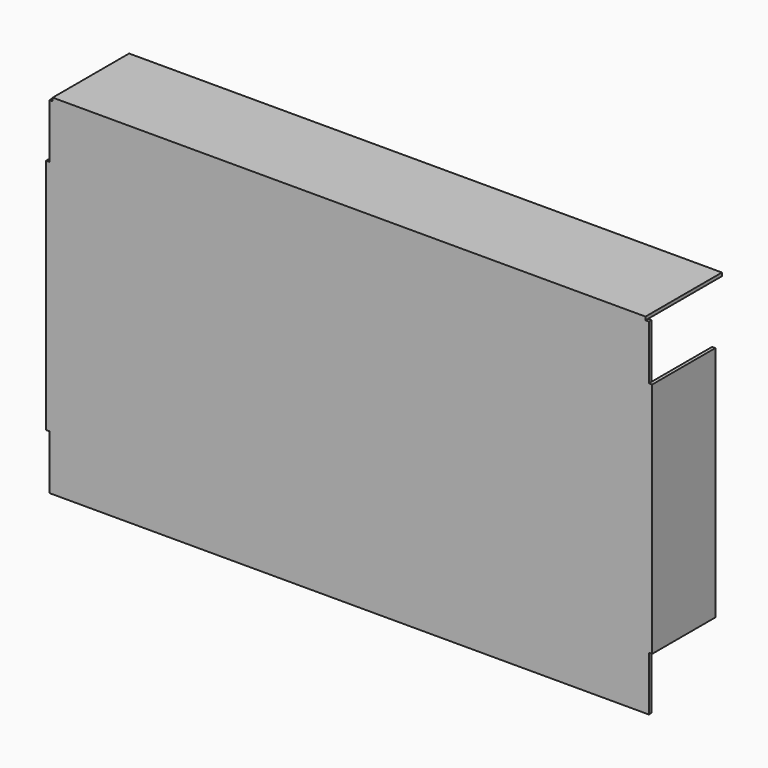
from build123d import *

# Parameters (mm, degrees)
F0_W      = 498.475
F0_H      = 254
F1_DEPTH  = 36.576
F2_W      = 577.8754
F2_H      = 333.502
F3_DEPTH  = 3.175
F4_W      = 76.2
F4_H      = 114.3
F5_DEPTH  = 3.175
F6_W      = 76.2
F6_H      = 228.6
F7_DEPTH  = 3.175
F8_W      = 25.4
F8_H      = 152.4
F9_DEPTH  = 6.35
F10_W     = 25.4
F10_H     = 152.4
F11_DEPTH = 6.35
F12_W     = 571.5
F12_H     = 92.075
F13_DEPTH = 3.175
F14_W     = 508
F14_H     = 25.4
F15_DEPTH = 6.35


with BuildPart() as f1:
    # F0 (on Front) → F1 (new body)
    with BuildSketch(Plane.XZ):
        Rectangle(F0_W, F0_H)
    extrude(amount=F1_DEPTH)

    # F2 (on face) → F3 (join)
    with BuildSketch(Plane.XZ.offset(36.576)):
        Rectangle(F2_W, F2_H)
    extrude(amount=F3_DEPTH)

    # F4 (on face) → F5 (join)
    with BuildSketch(Plane.YZ.offset(288.9377)):
        with Locations((-1.651, 57.15)):
            Rectangle(F4_W, F4_H)
        with Locations((-1.651, -57.15)):
            Rectangle(F4_W, F4_H)
    extrude(amount=F5_DEPTH)

    # F6 (on face) → F7 (join)
    with BuildSketch(Plane(origin=(-288.9377, 0, 0), x_dir=(0, -1, 0), z_dir=(-1, 0, 0))):
        with Locations((1.651, 0)):
            Rectangle(F6_W, F6_H)
    extrude(amount=F7_DEPTH)

    # F8 (on face) → F9 (join)
    with BuildSketch(Plane.YZ.offset(-288.9377)):
        with Locations((-1.651, 0)):
            Rectangle(F8_W, F8_H)
    extrude(amount=F9_DEPTH)

    # F10 (on face) → F11 (join)
    with BuildSketch(Plane(origin=(288.9377, 0, 0), x_dir=(0, -1, 0), z_dir=(-1, 0, 0))):
        with Locations((1.651, 0)):
            Rectangle(F10_W, F10_H)
    extrude(amount=F11_DEPTH)

    # F12 (on face) → F13 (join)
    with BuildSketch(Plane.XY.offset(166.751)):
        with Locations((0, 6.2865)):
            Rectangle(F12_W, F12_H)
    extrude(amount=F13_DEPTH)

    # F14 (on face) → F15 (join)
    with BuildSketch(Plane(origin=(0, 0, 166.751), x_dir=(1, 0, 0), z_dir=(0, 0, -1))):
        with Locations((0, -26.924)):
            Rectangle(F14_W, F14_H)
    extrude(amount=F15_DEPTH)


solid = f1.part
